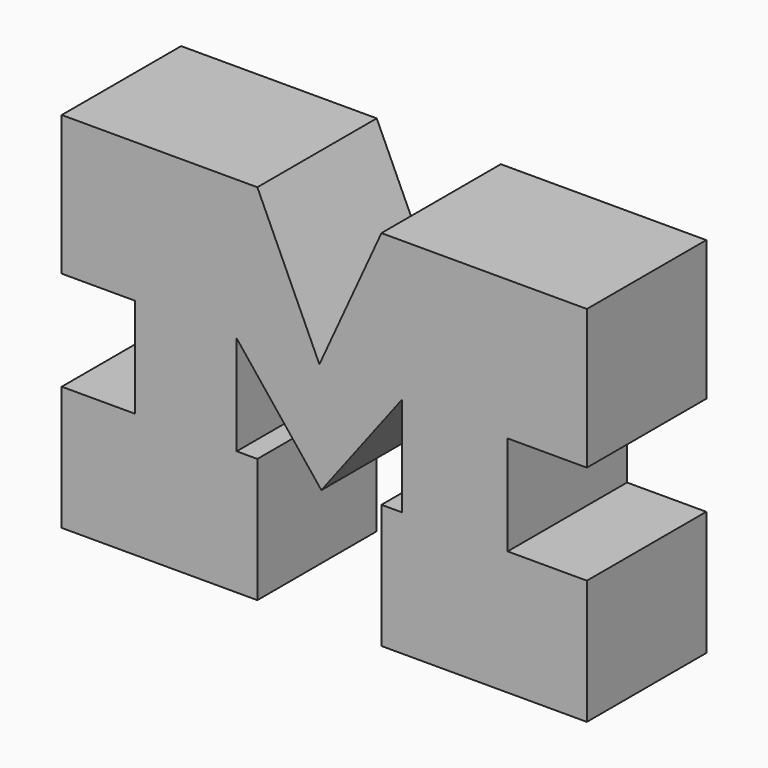
from build123d import *

# Parameters (mm, degrees)
F1_DEPTH = 76.2


with BuildPart() as f1:
    # F0 (on Front) → F1 (new body)
    with BuildSketch(Plane.XZ):
        Polygon((126.051183, 79.758804), (26.16092, 79.758804), (26.16092, 8.418191), (63.5, 8.418191), (63.5, -42.381809), (26.16092, -42.381809), (26.16092, -105.881809), (126.051183, -105.881809), (126.051183, -42.381809), (115.489612, -42.381809), (115.489612, 8.418191), (158.740297, -45.787193), (199.982187, 8.418191), (199.982187, -42.381809), (189.420615, -42.381809), (189.420615, -105.881809), (294.332802, -105.881809), (294.332802, -42.381809), (253.869431, -42.381809), (253.869431, 8.418191), (294.332802, 8.418191), (294.332802, 79.758804), (189.420615, 79.758804), (157.735899, 10.458596), align=None)
    extrude(amount=F1_DEPTH)


solid = f1.part
